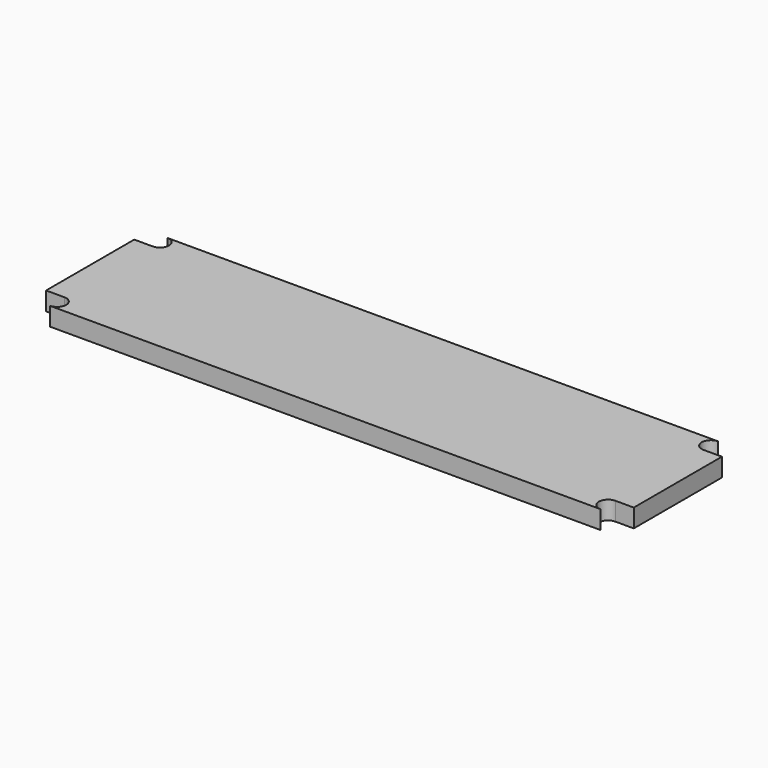
from build123d import *

# Parameters (mm, degrees)
F2_DEPTH = 10
F4_DEPTH = 10.001


with BuildPart() as f2:
    # F1 (on Top) → F2 (new body)
    with BuildSketch(Plane.XY):
        Polygon((-150, -40), (150, -40), (150, -30), (160, -30), (160, 30), (150, 30), (150, 40), (-150, 40), (-150, 30), (-160, 30), (-160, -30), (-150, -30), align=None)
    extrude(amount=F2_DEPTH)

    # F3 (on face) → F4 (cut, through all)
    with BuildSketch(Plane.XY.offset(10)):
        with BuildLine():
            ThreePointArc((-150, -40), (-145, -35), (-150, -30))
            Line((-150, -30), (-150, -40))
        make_face()
        with BuildLine():
            Line((-150, 40), (-150, 30))
            ThreePointArc((-150, 30), (-145, 35), (-150, 40))
        make_face()
        with BuildLine():
            Line((150, 30), (150, 40))
            ThreePointArc((150, 40), (145, 35), (150, 30))
        make_face()
        with BuildLine():
            ThreePointArc((150, -30), (145, -35), (150, -40))
            Line((150, -40), (150, -30))
        make_face()
    extrude(amount=-F4_DEPTH, mode=Mode.SUBTRACT)


solid = f2.part
